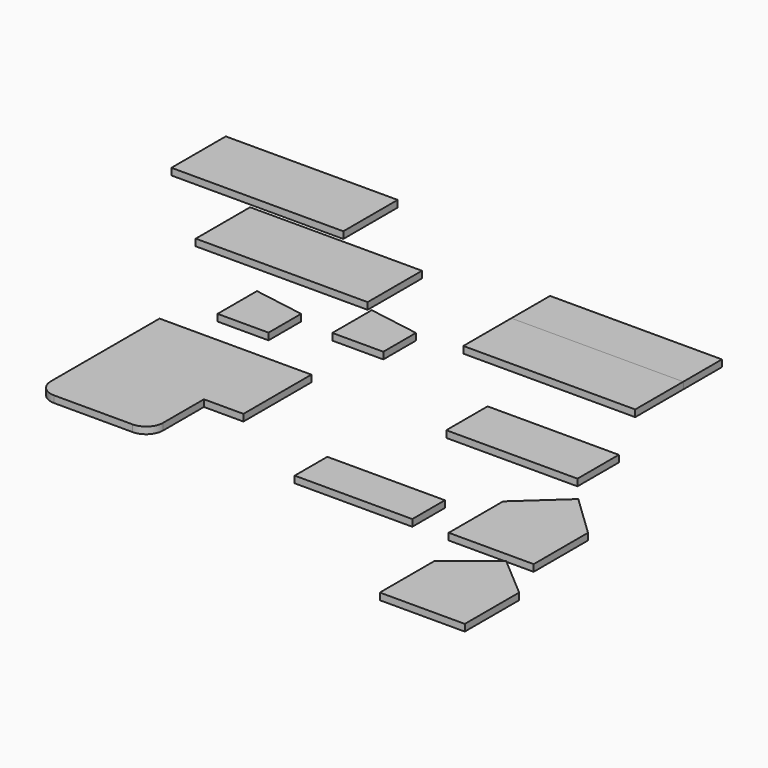
from build123d import *

# Parameters (mm, degrees)
F1_W      = 50.592
F1_H      = 20
F10_DEPTH = 2
F5_W      = 15
F5_H      = 12
F4_W      = 15
F4_H      = 12
F0_W      = 50.592
F0_H      = 20
F2_W      = 50.592
F2_H      = 17.678
F3_W      = 50.592
F3_H      = 17.678
F6_W      = 38.612
F6_H      = 15.207
F7_W      = 34.612
F7_H      = 12
F8_W      = 25
F8_H      = 20
F9_W      = 25
F9_H      = 20


with BuildPart() as f10:
    # F1 (on Top) → F10 (new body)
    with BuildSketch(Plane.XY):
        with Locations((-82.4932979216, 63.7588351965)):
            Rectangle(F1_W, F1_H)
    extrude(amount=F10_DEPTH)


with BuildPart() as f10b:
    # F5 (on Top) → F10, piece 2 (new body)
    with BuildSketch(Plane.XY):
        with Locations((-20.0563894267, 18.6787252277)):
            Rectangle(F5_W, F5_H)
        Polygon((-27.5563894267, 27.1787252277), (-27.5563894267, 24.6787252277), (-12.5563894267, 24.6787252277), align=None)
    extrude(amount=F10_DEPTH)


with BuildPart() as f10c:
    # F4 (on Top) → F10, piece 3 (new body)
    with BuildSketch(Plane.XY):
        with Locations((-46.593231149, 9.6191507727)):
            Rectangle(F4_W, F4_H)
        Polygon((-54.093231149, 18.1191507727), (-54.093231149, 15.6191507727), (-39.093231149, 15.6191507727), align=None)
    extrude(amount=F10_DEPTH)


with BuildPart() as f10d:
    # F0 (on Top) → F10, piece 4 (new body)
    with BuildSketch(Plane.XY):
        with Locations((-56.0977410712, 39.7115184367)):
            Rectangle(F0_W, F0_H)
    extrude(amount=F10_DEPTH)


with BuildPart() as f10e:
    # F2 (on Top) → F10, piece 5 (new body)
    with BuildSketch(Plane.XY):
        with Locations((25.296, 49.4785104464)):
            Rectangle(F2_W, F2_H)
    extrude(amount=F10_DEPTH)


with BuildPart() as f10f:
    # F3 (on Top) → F10, piece 6 (new body)
    with BuildSketch(Plane.XY):
        with Locations((25.296, 35.2548963126)):
            Rectangle(F3_W, F3_H)
    extrude(amount=F10_DEPTH)


with BuildPart() as f10g:
    # F6 (on Top) → F10, piece 7 (new body)
    with BuildSketch(Plane.XY):
        with Locations((42.4418825417, -1.1743893847)):
            Rectangle(F6_W, F6_H)
    extrude(amount=F10_DEPTH)


with BuildPart() as f10h:
    # F6 (on Top) → F10, piece 8 (new body)
    with BuildSketch(Plane.XY):
        Polygon((-18.3506011963, -6.5516024038), (-63.034683466, -6.5516024038), (-63.034683466, -31.5516024038), (-29.9733750251, -31.5516024038), (-18.3506011963, -31.5516024038), align=None)
        with BuildLine():
            Line((-29.9733750251, -31.5516024038), (-63.034683466, -31.5516024038))
            Line((-63.034683466, -31.5516024038), (-63.034683466, -46.5516024038))
            ThreePointArc((-63.034683466, -46.5516024038), (-61.5702173719, -50.0871363097), (-58.034683466, -51.5516024038))
            Line((-58.034683466, -51.5516024038), (-34.9733750251, -51.5516024038))
            ThreePointArc((-34.9733750251, -51.5516024038), (-31.4378411191, -50.0871363097), (-29.9733750251, -46.5516024038))
            Line((-29.9733750251, -46.5516024038), (-29.9733750251, -31.5516024038))
        make_face()
    extrude(amount=F10_DEPTH)


with BuildPart() as f10i:
    # F7 (on Top) → F10, piece 9 (new body)
    with BuildSketch(Plane.XY):
        with Locations((27.3617086989, -42.1949746609)):
            Rectangle(F7_W, F7_H)
    extrude(amount=F10_DEPTH)


with BuildPart() as f10j:
    # F8 (on Top) → F10, piece 10 (new body)
    with BuildSketch(Plane.XY):
        with Locations((67.9650614148, -38.2854957134)):
            Rectangle(F8_W, F8_H)
        Polygon((68.2384073734, -16.5874473751), (55.4650614148, -28.2854957134), (80.4650614148, -28.2854957134), align=None)
    extrude(amount=F10_DEPTH)


with BuildPart() as f10k:
    # F9 (on Top) → F10, piece 11 (new body)
    with BuildSketch(Plane.XY):
        with Locations((74.1860326253, -71.4023821056)):
            Rectangle(F9_W, F9_H)
        Polygon((74.4991078973, -50.9625710547), (61.6860326253, -61.4023821056), (86.6860326253, -61.4023821056), align=None)
    extrude(amount=F10_DEPTH)


solid = Compound([f10.part, f10b.part, f10c.part, f10d.part, f10e.part, f10f.part, f10g.part, f10h.part, f10i.part, f10j.part, f10k.part])
